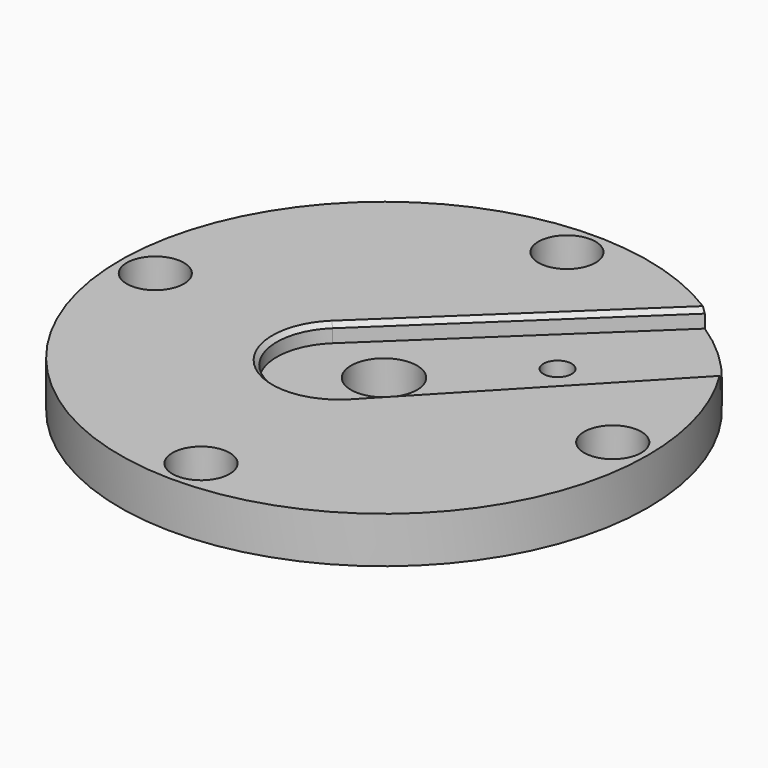
from build123d import *

# Parameters (mm, degrees)
SKETCH_R        = 60
SKETCH_R_2      = 7.5
SKETCH_R_3      = 3.2
SKETCH_R_4      = 5.05
PAD_DEPTH       = 14
SKETCH001_R     = 70
POCKET_DEPTH    = 3.5
POCKET001_DEPTH = 4
SKETCH003_R     = 6.5
POCKET002_DEPTH = 7.5
CHAMFER_SIZE    = 1


with BuildPart() as part:
    # Sketch → Pad (new body)
    with BuildSketch(Plane.XY):
        Circle(SKETCH_R)
        Circle(SKETCH_R_2, mode=Mode.SUBTRACT)
        with Locations((21.92031, 21.92031)):
            Circle(SKETCH_R_3, mode=Mode.SUBTRACT)
        with Locations((-52, 0)):
            Circle(SKETCH_R_4, mode=Mode.SUBTRACT)
        with Locations((52, 0)):
            Circle(SKETCH_R_4, mode=Mode.SUBTRACT)
        with Locations((0, 52)):
            Circle(SKETCH_R_4, mode=Mode.SUBTRACT)
        with Locations((0, -52)):
            Circle(SKETCH_R_4, mode=Mode.SUBTRACT)
    extrude(amount=PAD_DEPTH)

    # Sketch001 → Pocket (cut)
    with BuildSketch(Plane(origin=(0, 0, 0), x_dir=(1, 0, 0), z_dir=(0, 0, -1))):
        Circle(SKETCH001_R)
        with BuildLine():
            ThreePointArc((-41.534414, 15.11729), (-44.2, 0), (-41.534414, -15.11729))
            Line((-41.534414, -15.11729), (-47.924324, -17.443027))
            ThreePointArc((-47.924324, -17.443027), (-36.062446, -36.062446), (-17.443027, -47.924324))
            Line((-15.11729, -41.534414), (-17.443027, -47.924324))
            ThreePointArc((-15.11729, -41.534414), (0, -44.2), (15.11729, -41.534414))
            Line((15.11729, -41.534414), (17.443027, -47.924324))
            ThreePointArc((17.443027, -47.924324), (36.062446, -36.062446), (47.924324, -17.443027))
            Line((41.534414, -15.11729), (47.924324, -17.443027))
            ThreePointArc((41.534414, -15.11729), (44.2, 0), (41.534414, 15.11729))
            Line((41.534414, 15.11729), (47.924324, 17.443027))
            ThreePointArc((47.924324, 17.443027), (36.062446, 36.062446), (17.443027, 47.924324))
            Line((15.11729, 41.534414), (17.443027, 47.924324))
            ThreePointArc((15.11729, 41.534414), (0, 44.2), (-15.11729, 41.534414))
            Line((-15.11729, 41.534414), (-17.443027, 47.924324))
            ThreePointArc((-17.443027, 47.924324), (-36.062446, 36.062446), (-47.924324, 17.443027))
            Line((-41.534414, 15.11729), (-47.924324, 17.443027))
        make_face(mode=Mode.SUBTRACT)
    extrude(amount=-POCKET_DEPTH, mode=Mode.SUBTRACT)

    # Sketch002 → Pocket001 (cut)
    with BuildSketch(Plane.XY.offset(14)):
        with BuildLine():
            Line((4.644542, -15.439722), (81.321028, 65.300484))
            Line((81.321028, 65.300484), (64.32339, 80.393113))
            Line((64.32339, 80.393113), (-15.439722, 4.644542))
            ThreePointArc((-15.439722, 4.644542), (-15.702333, -15.702333), (4.644542, -15.439722))
        make_face()
    extrude(amount=-POCKET001_DEPTH, mode=Mode.SUBTRACT)

    # Sketch003 → Pocket002 (cut)
    with BuildSketch(Plane.XY.offset(14)):
        with Locations((0, 52)):
            Circle(SKETCH003_R)
        with Locations((52, 0)):
            Circle(SKETCH003_R)
        with Locations((0, -52)):
            Circle(SKETCH003_R)
        with Locations((-52, 0)):
            Circle(SKETCH003_R)
    extrude(amount=-POCKET002_DEPTH, mode=Mode.SUBTRACT)

    # Chamfer
    chamfer_edges = [part.edges().sort_by_distance(p)[0] for p in [
        (8.612883, 27.486561, 14),
    ]]
    chamfer(chamfer_edges, length=CHAMFER_SIZE)


solid = part.part
